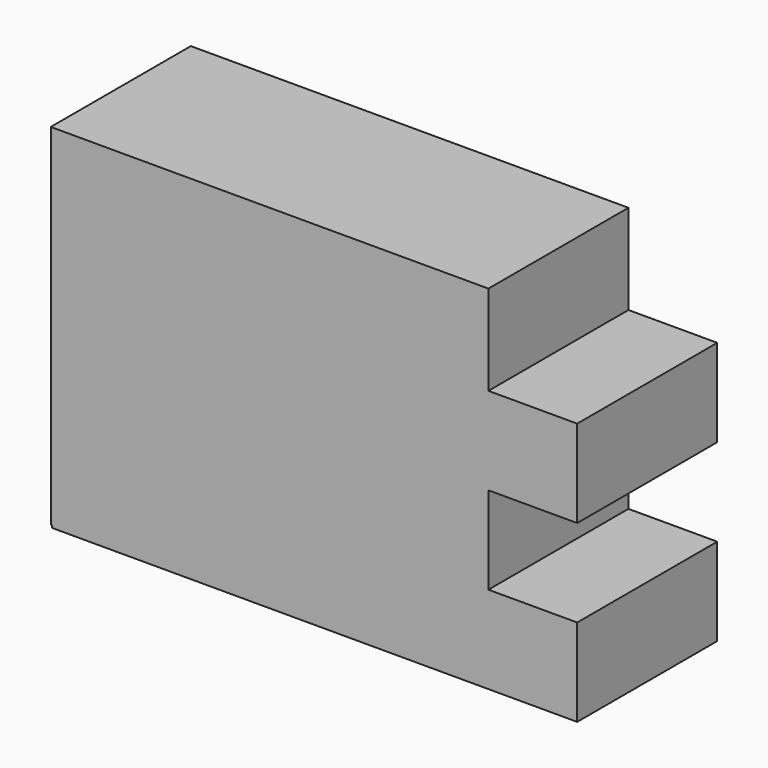
from build123d import *

# Parameters (mm, degrees)
F0_W     = 50
F0_H     = 40
F2_DEPTH = 20
F1_W     = 20
F1_H     = 10
F3_DEPTH = 20
F4_DEPTH = 20


with BuildPart() as f2:
    # F0 (on Front) → F2 (new body)
    with BuildSketch(Plane.XZ):
        with Locations((21.031922, 2.578686)):
            Rectangle(F0_W, F0_H)
    extrude(amount=F2_DEPTH)

    # F1 (on Front) → F3 (join)
    with BuildSketch(Plane.XZ):
        with Locations((46.17581, 7.295414)):
            Rectangle(F1_W, F1_H)
    extrude(amount=F3_DEPTH)

    # F1 (on Front) → F4 (join)
    with BuildSketch(Plane.XZ):
        Polygon((36.17581, -7.704586), (-3.82419, -7.704586), (-3.82419, -17.704586), (56.17581, -17.704586), (56.17581, -7.704586), align=None)
    extrude(amount=F4_DEPTH)


solid = f2.part
